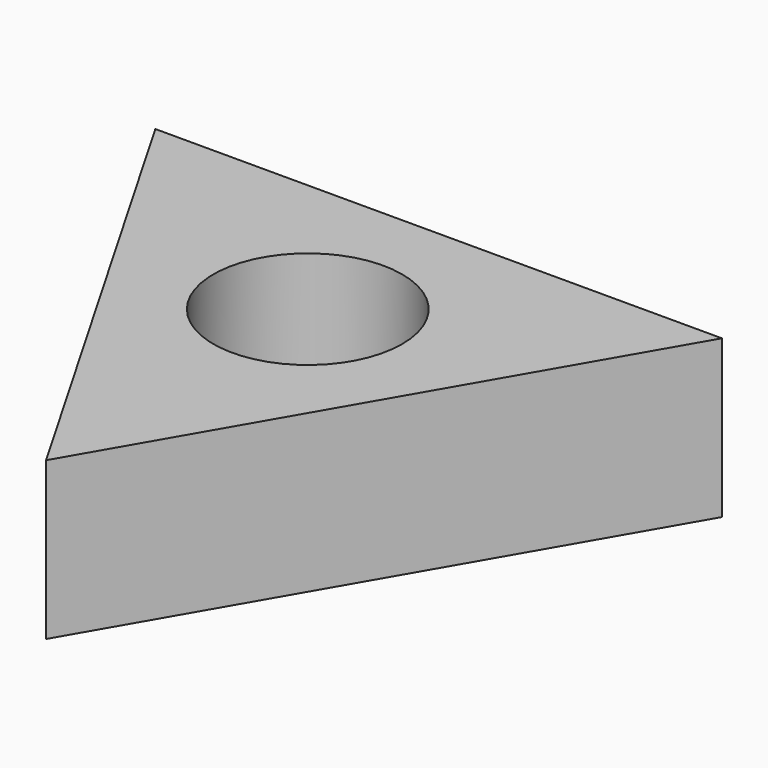
from build123d import *

# Parameters (mm, degrees)
F2_DEPTH = 15
F1_R     = 9
F3_DEPTH = 15


with BuildPart() as f2:
    # F0 (on Top) → F2 (new body)
    with BuildSketch(Plane.XY):
        Polygon((27, 15.588457), (-27, 15.588457), (0, -31.176915), align=None)
    extrude(amount=F2_DEPTH)

    # F1 (on Top) → F3 (cut)
    with BuildSketch(Plane.XY):
        Circle(F1_R)
    extrude(amount=F3_DEPTH, mode=Mode.SUBTRACT)


solid = f2.part
